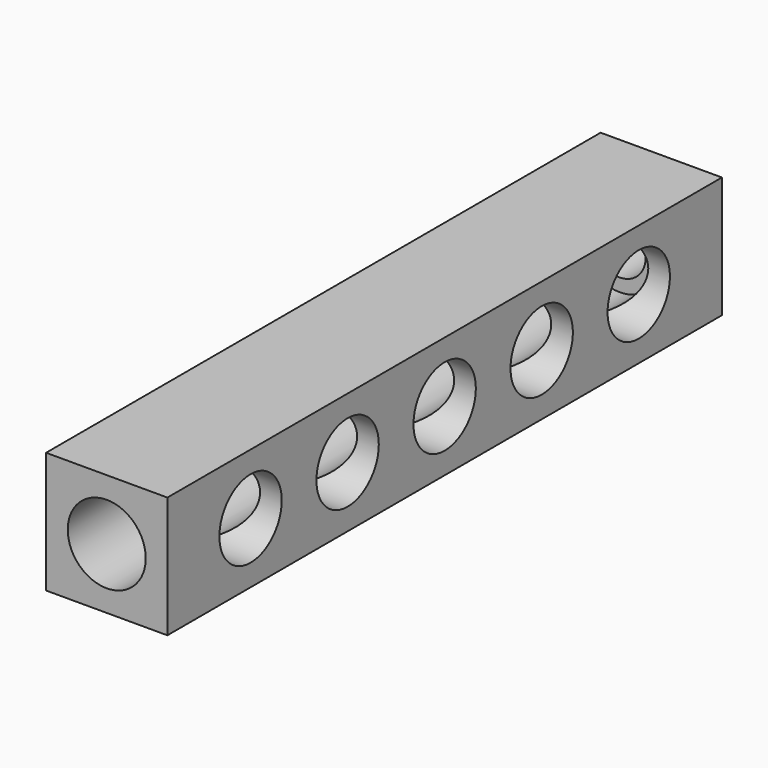
from build123d import *

# Parameters (mm, degrees)
F0_W     = 70
F0_H     = 70
F1_DEPTH = 400
F2_R     = 22.5
F3_DEPTH = 35
F4_R     = 22.5
F5_DEPTH = 370
F6_R     = 15
F7_DEPTH = 45


with BuildPart() as f1:
    # F0 (on Front) → F1 (new body)
    with BuildSketch(Plane.XZ):
        Rectangle(F0_W, F0_H)
    extrude(amount=F1_DEPTH)

    # F2 (on face) → F3 (cut)
    with BuildSketch(Plane.YZ.offset(35)):
        with Locations((-340, 0)):
            Circle(F2_R)
        with Locations((-270, 0)):
            Circle(F2_R)
        with Locations((-200, 0)):
            Circle(F2_R)
        with Locations((-130, 0)):
            Circle(F2_R)
        with Locations((-60, 0)):
            Circle(F2_R)
    extrude(amount=-F3_DEPTH, mode=Mode.SUBTRACT)

    # F4 (on face) → F5 (cut)
    with BuildSketch(Plane.XZ.offset(400)):
        Circle(F4_R)
    extrude(amount=-F5_DEPTH, mode=Mode.SUBTRACT)

    # F6 (on face) → F7 (cut)
    with BuildSketch(Plane(origin=(0, 0, 0), x_dir=(-1, 0, 0), z_dir=(0, 1, 0))):
        Circle(F6_R)
    extrude(amount=-F7_DEPTH, mode=Mode.SUBTRACT)


solid = f1.part
